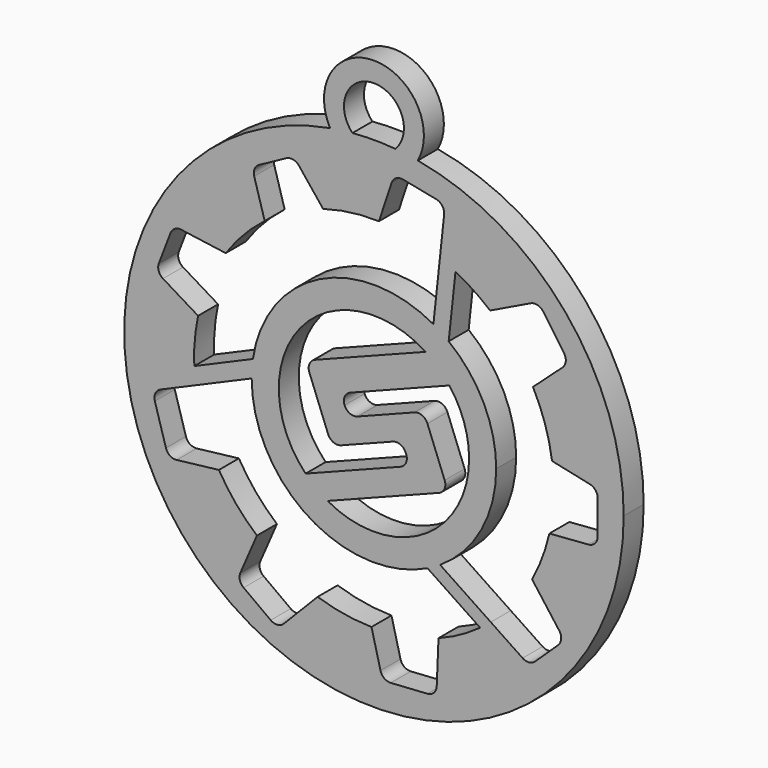
from build123d import *

# Parameters (mm, degrees)
F1_DEPTH = 2.5


with BuildPart() as f1:
    # F0 (on Front) → F1 (new body)
    with BuildSketch(Plane.XZ):
        with BuildLine():
            ThreePointArc((-38.431176, 54.871997), (-50.088537, 11.093074), (-9.038772, 30.260886))
            ThreePointArc((-9.038772, 30.260886), (-14.870959, 46.310651), (-29.646368, 54.871997))
            ThreePointArc((-29.646368, 54.871997), (-30.764385, 55.045527), (-31.889108, 55.168294))
            ThreePointArc((-31.889108, 55.168294), (-34.038772, 55.260886), (-36.188436, 55.168294))
            ThreePointArc((-36.188436, 55.168294), (-37.313159, 55.045527), (-38.431176, 54.871997))
        make_face()
        with BuildLine():
            ThreePointArc((-27.436737, 47.009275), (-26.647389, 46.676209), (-25.87478, 46.305967))
            ThreePointArc((-25.87478, 46.305967), (-24.07711, 45.256241), (-22.412639, 44.006009))
            Line((-22.412639, 44.006009), (-18.351048, 45.966118))
            ThreePointArc((-18.351048, 45.966118), (-17.663958, 46.033117), (-17.097186, 45.638972))
            Line((-17.097186, 45.638972), (-15.014567, 42.663804))
            ThreePointArc((-15.014567, 42.663804), (-14.840086, 41.978378), (-15.162712, 41.348962))
            Line((-15.162712, 41.348962), (-18.121272, 38.670913))
            ThreePointArc((-18.121272, 38.670913), (-16.90955, 35.800301), (-16.210955, 32.76375))
            Line((-16.210955, 32.76375), (-12.434427, 31.955754))
            ThreePointArc((-12.434427, 31.955754), (-11.866078, 31.606687), (-11.643643, 30.977885))
            Line((-11.643643, 30.977885), (-11.643643, 27.583928))
            ThreePointArc((-11.643643, 27.583928), (-11.910209, 26.904168), (-12.567791, 26.586809))
            Line((-12.567791, 26.586809), (-16.479693, 26.289224))
            ThreePointArc((-16.479693, 26.289224), (-17.186984, 23.927433), (-18.210327, 21.684425))
            Line((-18.210327, 21.684425), (-15.497295, 18.057033))
            ThreePointArc((-15.497295, 18.057033), (-15.301617, 17.374188), (-15.608727, 16.733679))
            Line((-15.608727, 16.733679), (-17.910432, 14.543347))
            ThreePointArc((-17.910432, 14.543347), (-18.514805, 14.271381), (-19.156508, 14.437057))
            Line((-19.156508, 14.437057), (-22.344594, 16.573609))
            ThreePointArc((-22.344594, 16.573609), (-22.868647, 16.142682), (-23.408566, 15.731809))
            ThreePointArc((-23.408566, 15.731809), (-25.41665, 14.457267), (-27.575226, 13.458566))
            Line((-27.575226, 13.458566), (-27.754484, 9.155613))
            ThreePointArc((-27.754484, 9.155613), (-28.038559, 8.498171), (-28.689408, 8.1993))
            Line((-28.689408, 8.1993), (-32.349118, 7.963827))
            ThreePointArc((-32.349118, 7.963827), (-33.001423, 8.152972), (-33.382452, 8.715194))
            Line((-33.382452, 8.715194), (-34.284313, 12.259912))
            ThreePointArc((-34.284313, 12.259912), (-37.014387, 12.505856), (-39.675475, 13.163432))
            Line((-39.675475, 13.163432), (-43.06656, 9.689531))
            ThreePointArc((-43.06656, 9.689531), (-43.698851, 9.391531), (-44.37184, 9.58043))
            Line((-44.37184, 9.58043), (-47.081775, 11.559113))
            ThreePointArc((-47.081775, 11.559113), (-47.457092, 12.104536), (-47.409397, 12.764896))
            Line((-47.409397, 12.764896), (-45.749935, 16.588138))
            ThreePointArc((-45.749935, 16.588138), (-47.841741, 18.70349), (-49.556617, 21.13445))
            Line((-49.556617, 21.13445), (-53.783735, 20.637289))
            ThreePointArc((-53.783735, 20.637289), (-54.451336, 20.795802), (-54.859614, 21.347279))
            Line((-54.859614, 21.347279), (-55.971582, 25.113494))
            ThreePointArc((-55.971582, 25.113494), (-55.918151, 25.820704), (-55.409183, 26.314619))
            Line((-55.409183, 26.314619), (-51.877978, 27.840539))
            ThreePointArc((-51.877978, 27.840539), (-51.97007, 28.659657), (-52.024569, 29.482132))
            ThreePointArc((-52.024569, 29.482132), (-51.977915, 31.771688), (-51.640984, 34.036798))
            Line((-51.640984, 34.036798), (-55.153296, 36.170466))
            ThreePointArc((-55.153296, 36.170466), (-55.58025, 36.701378), (-55.568044, 37.382559))
            Line((-55.568044, 37.382559), (-54.396808, 40.442881))
            ThreePointArc((-54.396808, 40.442881), (-53.971652, 40.946342), (-53.325566, 41.075976))
            Line((-53.325566, 41.075976), (-48.874356, 40.458966))
            ThreePointArc((-48.874356, 40.458966), (-47.087004, 42.664072), (-44.97527, 44.56083))
            Line((-44.97527, 44.56083), (-46.024426, 48.158616))
            ThreePointArc((-46.024426, 48.158616), (-45.98712, 48.824068), (-45.539929, 49.318274))
            Line((-45.539929, 49.318274), (-42.799457, 50.79961))
            ThreePointArc((-42.799457, 50.79961), (-42.125143, 50.899944), (-41.543224, 50.544788))
            Line((-41.543224, 50.544788), (-39.129262, 47.528842))
            ThreePointArc((-39.129262, 47.528842), (-36.360365, 48.113213), (-33.534103, 48.25646))
            Line((-33.534103, 48.25646), (-32.274634, 52.055594))
            ThreePointArc((-32.274634, 52.055594), (-31.828789, 52.605), (-31.130951, 52.721826))
            Line((-31.130951, 52.721826), (-27.811196, 52.06362))
            ThreePointArc((-27.811196, 52.06362), (-27.200088, 51.675185), (-27.01138, 50.976096))
            Line((-27.01138, 50.976096), (-27.436737, 47.009275))
        make_face(mode=Mode.SUBTRACT)
        with BuildLine():
            ThreePointArc((-31.889108, 55.168294), (-30.764385, 55.045527), (-29.646368, 54.871997))
            ThreePointArc((-29.646368, 54.871997), (-34.038772, 62.260886), (-38.431176, 54.871997))
            ThreePointArc((-38.431176, 54.871997), (-37.313159, 55.045527), (-36.188436, 55.168294))
            ThreePointArc((-36.188436, 55.168294), (-34.038772, 60.260886), (-31.889108, 55.168294))
        make_face()
        with BuildLine():
            ThreePointArc((-27.413909, 19.970899), (-23.295197, 24.400149), (-21.800608, 30.260886))
            ThreePointArc((-21.800608, 30.260886), (-23.053822, 35.655654), (-26.556799, 39.945551))
            ThreePointArc((-26.556799, 39.945551), (-27.302541, 40.478314), (-28.086061, 40.953775))
            ThreePointArc((-28.086061, 40.953775), (-39.463766, 41.230941), (-46.149733, 32.020793))
            ThreePointArc((-46.149733, 32.020793), (-46.245093, 31.143135), (-46.276935, 30.260886))
            ThreePointArc((-46.276935, 30.260886), (-40.524346, 19.882545), (-28.674625, 19.260951))
            ThreePointArc((-28.674625, 19.260951), (-28.033766, 19.597278), (-27.413909, 19.970899))
        make_face()
        with BuildLine():
            ThreePointArc((-26.494493, 36.076328), (-25.022157, 33.332721), (-24.513253, 30.260886))
            ThreePointArc((-24.513253, 30.260886), (-29.213352, 22.04804), (-38.675386, 21.939989))
            ThreePointArc((-38.675386, 21.939989), (-39.838521, 22.704536), (-40.877817, 23.630428))
            ThreePointArc((-40.877817, 23.630428), (-41.403861, 36.301662), (-28.874619, 38.265076))
            ThreePointArc((-28.874619, 38.265076), (-27.591004, 37.272434), (-26.494493, 36.076328))
        make_face(mode=Mode.SUBTRACT)
        with BuildLine():
            ThreePointArc((-46.276935, 30.260886), (-46.245093, 31.143135), (-46.149733, 32.020793))
            Line((-46.149733, 32.020793), (-52.024569, 29.482132))
            ThreePointArc((-52.024569, 29.482132), (-51.97007, 28.659657), (-51.877978, 27.840539))
            Line((-51.877978, 27.840539), (-46.276935, 30.260886))
        make_face()
        with BuildLine():
            Line((-22.344594, 16.573609), (-27.413909, 19.970899))
            ThreePointArc((-27.413909, 19.970899), (-28.033766, 19.597278), (-28.674625, 19.260951))
            Line((-28.674625, 19.260951), (-23.408566, 15.731809))
            ThreePointArc((-23.408566, 15.731809), (-22.868647, 16.142682), (-22.344594, 16.573609))
        make_face()
        with BuildLine():
            ThreePointArc((-28.086061, 40.953775), (-27.302541, 40.478314), (-26.556799, 39.945551))
            Line((-26.556799, 39.945551), (-25.87478, 46.305967))
            ThreePointArc((-25.87478, 46.305967), (-26.647389, 46.676209), (-27.436737, 47.009275))
            Line((-27.436737, 47.009275), (-28.086061, 40.953775))
        make_face()
        with BuildLine():
            Line((-36.404948, 32.222135), (-26.494493, 36.076328))
            ThreePointArc((-26.494493, 36.076328), (-27.591004, 37.272434), (-28.874619, 38.265076))
            Line((-28.874619, 38.265076), (-39.936242, 33.963191))
            ThreePointArc((-39.936242, 33.963191), (-40.489105, 33.433919), (-40.505786, 32.668734))
            Line((-40.505786, 32.668734), (-38.629208, 27.843408))
            ThreePointArc((-38.629208, 27.843408), (-38.099936, 27.290545), (-37.334751, 27.273864))
            Line((-37.334751, 27.273864), (-32.147718, 29.29111))
            ThreePointArc((-32.147718, 29.29111), (-31.382533, 29.274429), (-30.853261, 28.721566))
            Line((-30.853261, 28.721566), (-30.812855, 28.61767))
            ThreePointArc((-30.812855, 28.61767), (-30.829537, 27.852485), (-31.382399, 27.323213))
            Line((-31.382399, 27.323213), (-40.877817, 23.630428))
            ThreePointArc((-40.877817, 23.630428), (-39.838521, 22.704536), (-38.675386, 21.939989))
            Line((-38.675386, 21.939989), (-27.529152, 26.274779))
            ThreePointArc((-27.529152, 26.274779), (-26.976289, 26.804052), (-26.959608, 27.569237))
            Line((-26.959608, 27.569237), (-28.683195, 32.001171))
            ThreePointArc((-28.683195, 32.001171), (-29.212468, 32.554034), (-29.977653, 32.570715))
            Line((-29.977653, 32.570715), (-35.678317, 30.353717))
            ThreePointArc((-35.678317, 30.353717), (-36.443502, 30.370398), (-36.972774, 30.923261))
            Line((-36.972774, 30.923261), (-36.974492, 30.927678))
            ThreePointArc((-36.974492, 30.927678), (-36.957811, 31.692863), (-36.404948, 32.222135))
        make_face()
    extrude(amount=F1_DEPTH)


solid = f1.part
